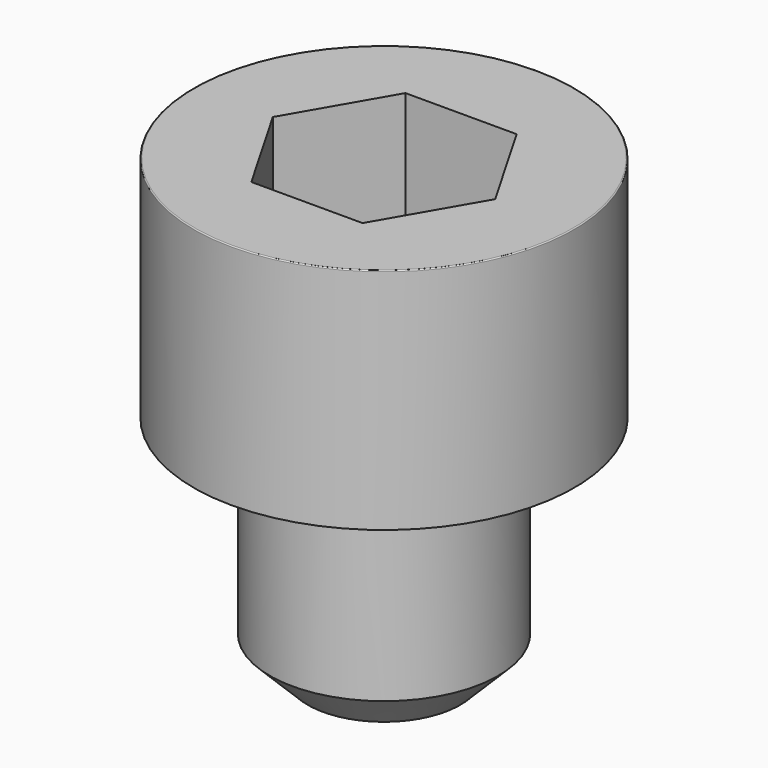
from build123d import *

# Parameters (mm, degrees)
POCKET_DEPTH = 5.06


with BuildPart() as part:
    # Sketch → Revolve (revolve)
    with BuildSketch(Plane.YZ):
        with BuildLine():
            Line((2.999, 0), (5, 0))
            Line((5, 0), (5, 5.97229))
            ThreePointArc((5, 5.97229), (4.991884, 5.991884), (4.97229, 6))
            Line((4.97229, 6), (0, 6))
            Line((0, -6), (0, 6))
            Line((2, -6), (0, -6))
            Line((3, -5), (2, -6))
            Line((3, -0.2), (3, -5))
            Line((2.999, 0), (3, -0.2))
        make_face()
    revolve(axis=Axis((0, 0, 0), (0, 0, 1)))

    # Sketch001 → Pocket (cut)
    with BuildSketch(Plane.XY.offset(6)):
        Polygon((2.921392, 0), (1.460696, 2.53), (-1.460696, 2.53), (-2.921392, 0), (-1.460696, -2.53), (1.460696, -2.53), align=None)
    extrude(amount=-POCKET_DEPTH, mode=Mode.SUBTRACT)


solid = part.part
